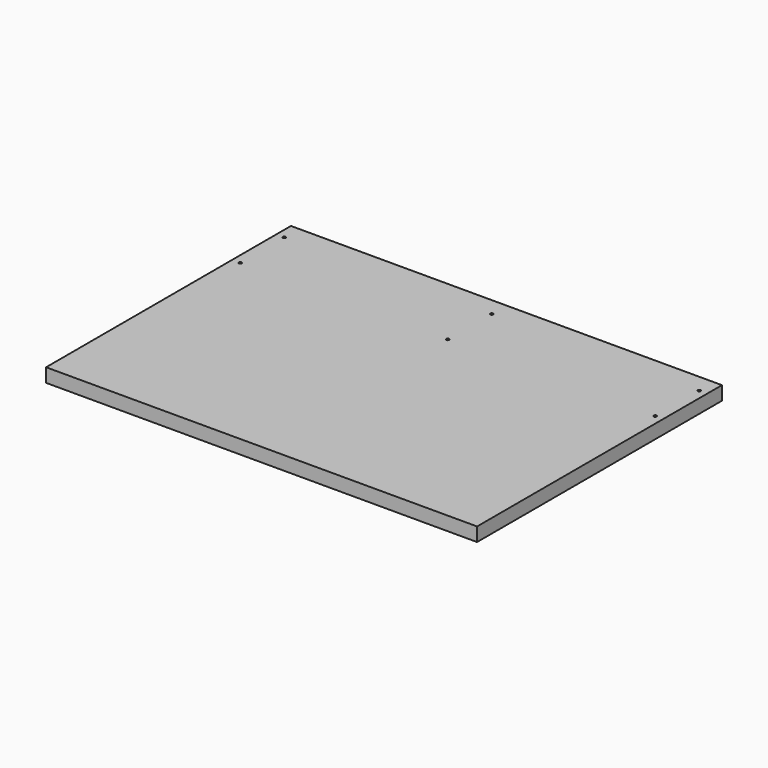
from build123d import *

# Parameters (mm, degrees)
F0_W     = 1193.8
F0_H     = 847.725
F1_DEPTH = 38.1
F3_D     = 8.001
F3_DEPTH = 19.05
F3_TIP   = 2.4037429064


with BuildPart() as f1:
    # F0 (on Top) → F1 (new body)
    with BuildSketch(Plane.XY):
        Rectangle(F0_W, F0_H)
    extrude(amount=F1_DEPTH)

    # F3
    with Locations(Plane.XY.offset(38.1)):
        with Locations((-574.675, 373.0625), (-574.675, 220.6625), (0, 373.0625), (0, 220.6625), (574.675, 373.0625), (574.675, 220.6625)):
            Hole(F3_D / 2, depth=F3_DEPTH)
            with Locations((0, 0, -(F3_DEPTH + F3_TIP / 2))):  # 118° drill point
                Cone(0, F3_D / 2, F3_TIP, mode=Mode.SUBTRACT)


solid = f1.part
